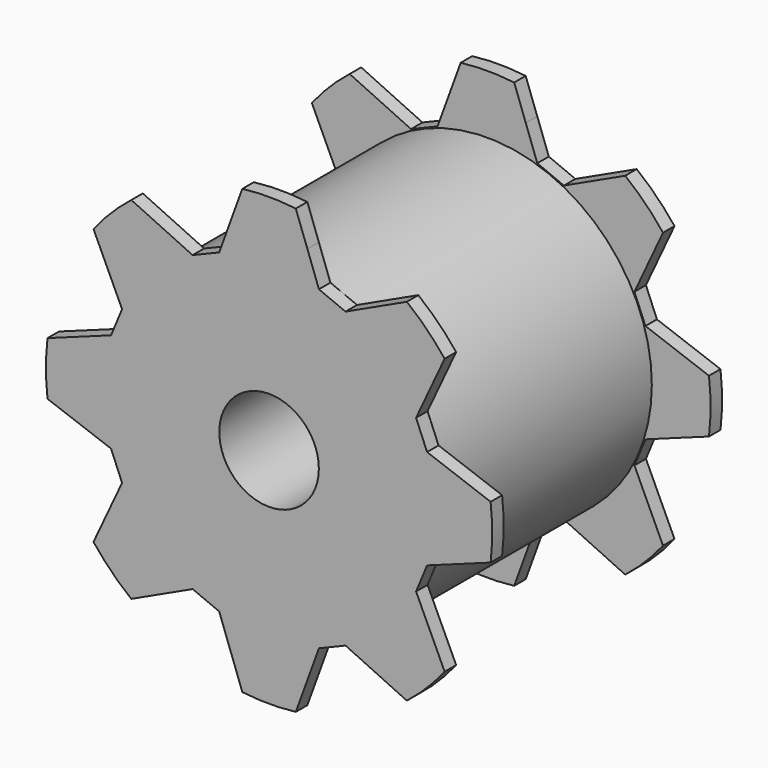
from build123d import *

# Parameters (mm, degrees)
F1_DEPTH = 150
F2_W     = 60
F2_H     = 135
F4_R     = 25.991118
F5_DEPTH = 150.001


with BuildPart() as f1:
    # F0 (on Front) → F1 (new body)
    with BuildSketch(Plane.XZ):
        with BuildLine():
            Line((26.036771, 82.488403), (20, 99.074293))
            Line((20, 99.074293), (-20, 99.074293))
            Line((-20, 99.074293), (-26.036771, 82.488403))
            Line((-26.036771, 82.488403), (-39.917332, 76.738886))
            Line((-39.917332, 76.738886), (-71.910606, 91.657595))
            ThreePointArc((-71.910606, 91.657595), (-82.37794, 82.37794), (-91.657595, 71.910606))
            Line((-91.657595, 71.910606), (-76.738886, 39.917332))
            Line((-76.738886, 39.917332), (-82.488403, 26.036771))
            Line((-82.488403, 26.036771), (-115.660184, 13.963229))
            ThreePointArc((-115.660184, 13.963229), (-116.5, 0), (-115.660184, -13.963229))
            Line((-115.660184, -13.963229), (-82.488403, -26.036771))
            Line((-82.488403, -26.036771), (-76.738886, -39.917332))
            Line((-76.738886, -39.917332), (-91.657595, -71.910606))
            ThreePointArc((-91.657595, -71.910606), (-82.37794, -82.37794), (-71.910606, -91.657595))
            Line((-71.910606, -91.657595), (-39.917332, -76.738886))
            Line((-39.917332, -76.738886), (-26.036771, -82.488403))
            Line((-26.036771, -82.488403), (-13.963229, -115.660184))
            ThreePointArc((-13.963229, -115.660184), (0, -116.5), (13.963229, -115.660184))
            Line((13.963229, -115.660184), (26.036771, -82.488403))
            Line((26.036771, -82.488403), (39.917332, -76.738886))
            Line((39.917332, -76.738886), (71.910606, -91.657595))
            ThreePointArc((71.910606, -91.657595), (82.37794, -82.37794), (91.657595, -71.910606))
            Line((91.657595, -71.910606), (76.738886, -39.917332))
            Line((76.738886, -39.917332), (82.488403, -26.036771))
            Line((82.488403, -26.036771), (115.660184, -13.963229))
            ThreePointArc((115.660184, -13.963229), (116.5, 0), (115.660184, 13.963229))
            Line((115.660184, 13.963229), (82.488403, 26.036771))
            Line((82.488403, 26.036771), (76.738886, 39.917332))
            Line((76.738886, 39.917332), (91.657595, 71.910606))
            ThreePointArc((91.657595, 71.910606), (82.37794, 82.37794), (71.910606, 91.657595))
            Line((71.910606, 91.657595), (39.917332, 76.738886))
            Line((39.917332, 76.738886), (26.036771, 82.488403))
        make_face()
        with BuildLine():
            Line((20, 99.074293), (13.963229, 115.660184))
            ThreePointArc((13.963229, 115.660184), (0, 116.5), (-13.963229, 115.660184))
            Line((-13.963229, 115.660184), (-20, 99.074293))
            Line((-20, 99.074293), (20, 99.074293))
        make_face()
    extrude(amount=F1_DEPTH)

    # F2 (on Top) → F3 (revolve, cut)
    with BuildSketch(Plane.XY):
        with Locations((-115.815, -75)):
            Rectangle(F2_W, F2_H)
    revolve(axis=Axis((0, -79.557486, 0), (0, -1, 0)), mode=Mode.SUBTRACT)

    # F4 (on face) → F5 (cut, through all)
    with BuildSketch(Plane.XZ.offset(150)):
        Circle(F4_R)
    extrude(amount=-F5_DEPTH, mode=Mode.SUBTRACT)


solid = f1.part
